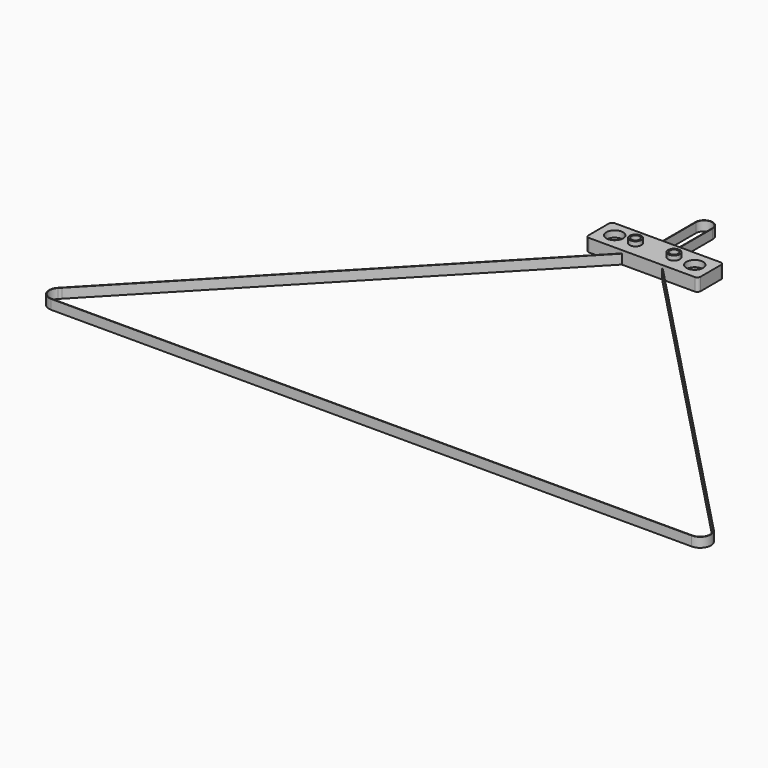
from build123d import *

# Parameters (mm, degrees)
F1_DEPTH = 6
F2_W     = 70
F2_H     = 20
F2_R     = 2.65
F3_DEPTH = 8
F4_R     = 5.25
F5_DEPTH = 4
F6_R     = 3.65
F6_R_2   = 2.65
F7_DEPTH = 2.8
F8_R     = 2


with BuildPart() as f1:
    # F0 (on Top) → F1 (new body)
    with BuildSketch(Plane.XY):
        with BuildLine():
            ThreePointArc((-200, -6.365), (-205.8550143362, -2.496403838), (-204.5927667748, 4.4067809513))
            Line((-204.5927667748, 4.4067809513), (-205.9962283404, 2.9440865629))
            ThreePointArc((-205.9962283404, 2.9440865629), (-205.6696074926, -3.5324143132), (-200, -6.68))
            Line((-200, -6.68), (200, -6.68))
            ThreePointArc((200, -6.68), (206.144775239, -2.6199498588), (204.8200607843, 4.6248690831))
            Line((204.8200607843, 4.6248690831), (6.828621303, 210.9724988056))
            ThreePointArc((6.828621303, 210.9724988056), (5.7779409533, 212.5989640273), (5.41, 214.5))
            Line((5.41, 214.5), (5.41, 253))
            ThreePointArc((5.41, 253), (5.3365496239, 253.8884470225), (5.1181929347, 254.7527695466))
            Line((5.1181929347, 254.7527695466), (5.095, 254.7818723))
            Line((5.095, 254.7818723), (5.095, 254.8190863091))
            ThreePointArc((5.095, 254.8190863091), (0, 258.41), (-5.095, 254.8190863091))
            Line((-5.095, 254.8190863091), (-5.095, 254.7818723))
            Line((-5.095, 254.7818723), (-5.1181929347, 254.7527695466))
            ThreePointArc((-5.1181929347, 254.7527695466), (-5.3365496239, 253.8884470225), (-5.41, 253))
            Line((-5.41, 253), (-5.41, 214.5))
            ThreePointArc((-5.41, 214.5), (-5.7779409533, 212.5989640273), (-6.828621303, 210.9724988056))
            Line((-6.828621303, 210.9724988056), (-204.8200607843, 4.6248690831))
            ThreePointArc((-204.8200607843, 4.6248690831), (-204.052746223, 5.3101457656), (-203.1893066572, 5.8694738304))
            Line((-203.1893066572, 5.8694738304), (-6.6013280175, 210.7544099192))
            ThreePointArc((-6.6013280175, 210.7544099192), (-5.4856890201, 212.481431872), (-5.095, 214.5))
            Line((-5.095, 214.5), (-5.095, 253))
            ThreePointArc((-5.095, 253), (0, 258.095), (5.095, 253))
            Line((5.095, 253), (5.095, 214.5))
            ThreePointArc((5.095, 214.5), (5.5088128874, 212.4248579962), (6.6869461501, 210.6671727408))
            Line((6.6869461501, 210.6671727408), (204.4920356293, 4.5094169141))
            ThreePointArc((204.4920356293, 4.5094169141), (205.8828421557, -2.4301014734), (200, -6.365))
            Line((200, -6.365), (-200, -6.365))
        make_face()
        with BuildLine():
            Line((-205.9962283404, 2.9440865629), (-204.5927667748, 4.4067809513))
            Line((-204.5927667748, 4.4067809513), (-203.1893066572, 5.8694738304))
            ThreePointArc((-203.1893066572, 5.8694738304), (-204.052746223, 5.3101457656), (-204.8200607843, 4.6248690831))
            ThreePointArc((-204.8200607843, 4.6248690831), (-205.4730508016, 3.8298975081), (-205.9962283404, 2.9440865629))
        make_face()
        with BuildLine():
            ThreePointArc((-5.095, 254.8190863091), (-5.1067041189, 254.7859655768), (-5.1181929347, 254.7527695466))
            Line((-5.1181929347, 254.7527695466), (-5.095, 254.7818723))
            Line((-5.095, 254.7818723), (-5.095, 254.8190863091))
        make_face()
        with BuildLine():
            ThreePointArc((5.1181929347, 254.7527695466), (5.1067041189, 254.7859655768), (5.095, 254.8190863091))
            Line((5.095, 254.8190863091), (5.095, 254.7818723))
            Line((5.095, 254.7818723), (5.1181929347, 254.7527695466))
        make_face()
    extrude(amount=F1_DEPTH)


with BuildPart() as f3:
    # F2 (on Top) → F3 (new body)
    with BuildSketch(Plane.XY):
        with Locations((0, 214.5)):
            Rectangle(F2_W, F2_H)
        with Locations((-25, 214.5)):
            Circle(F2_R, mode=Mode.SUBTRACT)
        with Locations((-12.005, 214.5)):
            Circle(F2_R, mode=Mode.SUBTRACT)
        with Locations((12.005, 214.5)):
            Circle(F2_R, mode=Mode.SUBTRACT)
        with Locations((25, 214.5)):
            Circle(F2_R, mode=Mode.SUBTRACT)
    extrude(amount=F3_DEPTH)

    # F4 (on face) → F5 (cut)
    with BuildSketch(Plane.XY.offset(8)):
        with Locations((-25, 214.5)):
            Circle(F4_R)
        with Locations((25, 214.5)):
            Circle(F4_R)
    extrude(amount=-F5_DEPTH, mode=Mode.SUBTRACT)

    # F6 (on face) → F7 (join)
    with BuildSketch(Plane.XY.offset(8)):
        with Locations((-12.005, 214.5)):
            Circle(F6_R)
        with Locations((-12.005, 214.5)):
            Circle(F6_R_2, mode=Mode.SUBTRACT)
        with Locations((12.005, 214.5)):
            Circle(F6_R)
        with Locations((12.005, 214.5)):
            Circle(F6_R_2, mode=Mode.SUBTRACT)
    extrude(amount=F7_DEPTH)

    # F8
    f8_edges = [f3.edges().sort_by_distance(p)[0] for p in [
        (-35, 204.5, 4),
        (-35, 224.5, 4),
        (35, 224.5, 4),
        (35, 204.5, 4),
    ]]
    fillet(f8_edges, radius=F8_R)


solid = Compound([f1.part, f3.part])
